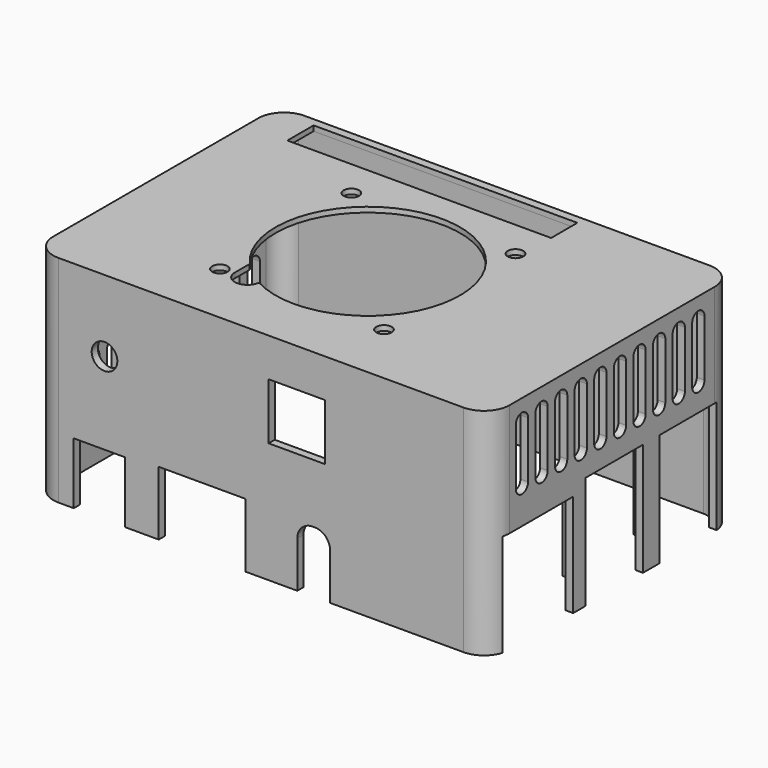
from build123d import *

# Parameters (mm, degrees)
SKETCH_W               = 89
SKETCH_H               = 60
PAD_DEPTH              = 42
FILLET_R               = 5
POCKET_DEPTH           = 41
SKETCH002_W            = 14
SKETCH002_H            = 22
SKETCH002_W_2          = 17
SKETCH002_H_2          = 20
POCKET001_DEPTH        = 5
SKETCH004_R            = 2.5
SKETCH004_W            = 10
SKETCH004_H            = 12
SKETCH004_W_2          = 16.894087
SKETCH004_H_2          = 12.5
SKETCH004_W_3          = 11
SKETCH004_H_3          = 11
POCKET002_DEPTH        = 5
SKETCH005_R            = 1.5
SKETCH005_W            = 51.43875
SKETCH005_H            = 6.4
POCKET003_DEPTH        = 5
POCKET004_DEPTH        = 5
LINEARPATTERN_COUNT    = 10
LINEARPATTERN_PITCH    = 4.777778
SKETCH007_R            = 0.7
POCKET005_DEPTH        = 5
POCKET006_DEPTH        = 5
LINEARPATTERN001_COUNT = 8
LINEARPATTERN001_PITCH = 4.857143
POCKET007_DEPTH        = 5
LINEARPATTERN002_COUNT = 2
LINEARPATTERN002_PITCH = 5
SKETCH010_W            = 1
SKETCH010_H            = 19.033101
SKETCH010_W_2          = 0.8
PAD001_DEPTH           = 1.5
CHAMFER_SIZE           = 1.3
PAD002_DEPTH           = 1.5
CHAMFER001_SIZE        = 1.3


with BuildPart() as part:
    # Sketch → Pad (new body)
    with BuildSketch(Plane.XY):
        with Locations((43, 28.5)):
            Rectangle(SKETCH_W, SKETCH_H)
    extrude(amount=PAD_DEPTH)

    # Fillet
    fillet_edges = [part.edges().sort_by_distance(p)[0] for p in [
        (-1.5, -1.5, 21),
        (87.5, -1.5, 21),
        (87.5, 58.5, 21),
        (-1.5, 58.5, 21),
    ]]
    fillet(fillet_edges, radius=FILLET_R)

    # Sketch003 (on Face2 of Fillet) → Pocket (cut)
    with BuildSketch(Plane.XY):
        with BuildLine():
            Line((3.5, 0), (82.5, 0))
            ThreePointArc((82.5, 0), (84.974874, 1.025126), (86, 3.5))
            Line((86, 3.5), (86, 53.5))
            ThreePointArc((86, 53.5), (84.974874, 55.974874), (82.5, 57))
            Line((82.5, 57), (3.5, 57))
            ThreePointArc((3.5, 57), (1.025126, 55.974874), (0, 53.5))
            Line((0, 53.5), (0, 3.5))
            ThreePointArc((0, 3.5), (1.025126, 1.025126), (3.5, 0))
        make_face()
    extrude(amount=POCKET_DEPTH, mode=Mode.SUBTRACT)

    # Sketch002 → Pocket001 (cut)
    with BuildSketch(Plane.YZ.offset(88.5)):
        with Locations((29, 11)):
            Rectangle(SKETCH002_W, SKETCH002_H)
        with Locations((47, 11)):
            Rectangle(SKETCH002_W, SKETCH002_H)
        with Locations((10.5, 10)):
            Rectangle(SKETCH002_W_2, SKETCH002_H_2)
    extrude(amount=-POCKET001_DEPTH, mode=Mode.SUBTRACT)

    # Sketch004 (on Face1 of Pocket001) → Pocket002 (cut)
    with BuildSketch(Plane.XZ.offset(1.5)):
        with Locations((12.5, 28)):
            Circle(SKETCH004_R)
        with Locations((11.5, 6)):
            Rectangle(SKETCH004_W, SKETCH004_H)
        with BuildLine():
            Line((53.08972, 12), (53.498247, 12))
            ThreePointArc((56.498247, 9), (55.619567, 11.12132), (53.498247, 12))
            Line((56.498247, 9), (56.498247, 0))
            Line((56.498247, 0), (50.08972, 0))
            Line((50.08972, 0), (50.08972, 9))
            ThreePointArc((53.08972, 12), (50.9684, 11.12132), (50.08972, 9))
        make_face()
        with Locations((31.520821, 6.25)):
            Rectangle(SKETCH004_W_2, SKETCH004_H_2)
        with Locations((50, 29)):
            Rectangle(SKETCH004_W_3, SKETCH004_H_3)
    extrude(amount=-POCKET002_DEPTH, mode=Mode.SUBTRACT)

    # Sketch005 (on Face18 of Pocket002) → Pocket003 (cut)
    with BuildSketch(Plane.XY.offset(42)):
        with Locations((56.999681, 43.057355)):
            Circle(SKETCH005_R)
        with Locations((25, 43.057355)):
            Circle(SKETCH005_R)
        with Locations((24.999681, 11)):
            Circle(SKETCH005_R)
        with Locations((56.999681, 11)):
            Circle(SKETCH005_R)
        with Locations((32.274327, 53.7)):
            Rectangle(SKETCH005_W, SKETCH005_H)
        with BuildLine():
            ThreePointArc((32.481682, 11.200551), (52.184992, 41.160403), (27.499999, 15.151476))
            Line((27.499681, 11.500218), (27.499999, 15.151476))
            ThreePointArc((27.499681, 11.500218), (29.849577, 9.00451), (32.481682, 11.200551))
        make_face()
    extrude(amount=-POCKET003_DEPTH, mode=Mode.SUBTRACT)

    # Sketch006 (on Face38 of Pocket003) → Pocket004 (cut)
    with BuildSketch(Plane.YZ.offset(87.5)):
        with BuildLine():
            ThreePointArc((8, 38), (6.5, 39.5), (5, 38))
            Line((5, 38), (5, 27))
            ThreePointArc((5, 27), (6.5, 25.5), (8, 27))
            Line((8, 38), (8, 27))
        make_face()
    pocket004 = extrude(amount=-POCKET004_DEPTH, mode=Mode.SUBTRACT)

    # LinearPattern: Pocket004 ×10
    with Locations(*[(0, i * LINEARPATTERN_PITCH, 0) for i in range(1, LINEARPATTERN_COUNT)]):
        add(pocket004, mode=Mode.SUBTRACT)

    # Sketch007 (on Face25 of LinearPattern) → Pocket005 (cut)
    with BuildSketch(Plane(origin=(-1.5, 0, 0), x_dir=(0, -1, 0), z_dir=(-1, 0, 0))):
        with Locations((-48, 6.5)):
            Circle(SKETCH007_R)
        with Locations((-44, 6.5)):
            Circle(SKETCH007_R)
    extrude(amount=-POCKET005_DEPTH, mode=Mode.SUBTRACT)

    # Sketch008 (on Face25 of Pocket005) → Pocket006 (cut)
    with BuildSketch(Plane(origin=(-1.5, 0, 0), x_dir=(0, -1, 0), z_dir=(-1, 0, 0))):
        with BuildLine():
            ThreePointArc((-39, 18.5), (-40.5, 20), (-42, 18.5))
            Line((-42, 18.5), (-42, 7.5))
            ThreePointArc((-42, 7.5), (-40.5, 6), (-39, 7.5))
            Line((-39, 18.5), (-39, 7.5))
        make_face()
    pocket006 = extrude(amount=-POCKET006_DEPTH, mode=Mode.SUBTRACT)

    # LinearPattern001: Pocket006 ×8
    with Locations(*[(0, -i * LINEARPATTERN001_PITCH, 0) for i in range(1, LINEARPATTERN001_COUNT)]):
        add(pocket006, mode=Mode.SUBTRACT)

    # Sketch009 (on Face25 of Pocket005) → Pocket007 (cut)
    with BuildSketch(Plane(origin=(-1.5, 0, 0), x_dir=(0, -1, 0), z_dir=(-1, 0, 0))):
        with BuildLine():
            ThreePointArc((-44, 18.5), (-45.5, 20), (-47, 18.5))
            Line((-47, 18.5), (-47, 10.5))
            ThreePointArc((-47, 10.5), (-45.5, 9), (-44, 10.5))
            Line((-44, 18.5), (-44, 10.5))
        make_face()
    pocket007 = extrude(amount=-POCKET007_DEPTH, mode=Mode.SUBTRACT)

    # LinearPattern002: Pocket007 ×2
    with Locations(*[(0, i * LINEARPATTERN002_PITCH, 0) for i in range(1, LINEARPATTERN002_COUNT)]):
        add(pocket007, mode=Mode.SUBTRACT)

    # Sketch010 (on Face95 of LinearPattern002) → Pad001 (join)
    with BuildSketch(Plane(origin=(86, 0, 0), x_dir=(0, -1, 0), z_dir=(-1, 0, 0))):
        with Locations((-38, 14.483449)):
            Rectangle(SKETCH010_W, SKETCH010_H)
        with Locations((-20.5, 14.483449)):
            Rectangle(SKETCH010_W_2, SKETCH010_H)
    extrude(amount=PAD001_DEPTH)

    # Chamfer
    chamfer_edges = [part.edges().sort_by_distance(p)[0] for p in [
        (84.5, 20.5, 24),
        (84.5, 38, 24),
    ]]
    chamfer(chamfer_edges, length=CHAMFER_SIZE)

    # Sketch011 (on Face75 of Chamfer) → Pad002 (join)
    with BuildSketch(Plane.YZ):
        with BuildLine():
            ThreePointArc((44.004904, 7.383034), (43.160347, 6.792476), (43.425158, 5.796528))
            Line((43.425158, 5.796528), (42.852135, 5.796528))
            ThreePointArc((44.004904, 7.825978), (42.837905, 7.146734), (42.852135, 5.796528))
            Line((44.004904, 7.825978), (48.055017, 7.825978))
            ThreePointArc((49.207786, 5.796528), (49.222016, 7.146734), (48.055017, 7.825978))
            Line((49.207786, 5.796528), (48.634763, 5.796528))
            ThreePointArc((48.634763, 5.796528), (48.899574, 6.792476), (48.055017, 7.383034))
            Line((46.316472, 7.383034), (48.055017, 7.383034))
            Line((46.316472, 6.061367), (46.316472, 7.383034))
            Line((45.743449, 6.061367), (46.316472, 6.061367))
            Line((45.743449, 7.383034), (45.743449, 6.061367))
            Line((44.004904, 7.383034), (45.743449, 7.383034))
        make_face()
    extrude(amount=PAD002_DEPTH)

    # Chamfer001
    chamfer001_edges = [part.edges().sort_by_distance(p)[0] for p in [
        (1.5, 48.921274, 5.796528),
        (1.5, 46.02996, 6.061367),
        (1.5, 43.138647, 5.796528),
    ]]
    chamfer(chamfer001_edges, length=CHAMFER001_SIZE)


solid = part.part
